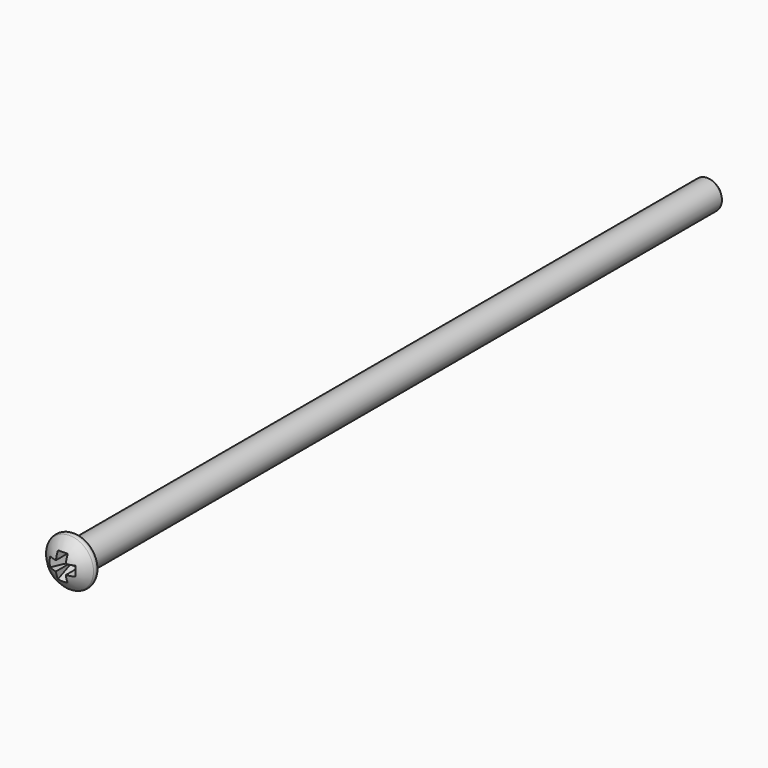
from build123d import *

# Parameters (mm, degrees)
PAD009_DEPTH            = 0.5
BODY005_PLACEMENT_ANGLE = 90
PAD008_DEPTH            = 0.5


with BuildPart() as body005:
    # Sketch021 → Pad009 (new body, symmetric)
    with BuildSketch(Plane.XY):
        Polygon((-2.15, -3.5), (2.15, -3.5), (0.625, 0), (-0.625, 0), align=None)
    extrude(amount=PAD009_DEPTH, both=True)


with BuildPart() as body005_1:
    # Body005 placement: moved
    add(body005.part.rotate(Axis((0, 0, 0), (0, -1, 0)), BODY005_PLACEMENT_ANGLE))


with BuildPart() as fusion:
    # Sketch020 → Pad008 (new body, symmetric)
    with BuildSketch(Plane.XY):
        Polygon((-2.15, -3.5), (2.15, -3.5), (0.625, 0), (-0.625, 0), align=None)
    extrude(amount=PAD008_DEPTH, both=True)

    # Fusion: union Body005
    add(body005_1.part)


with BuildPart() as body015:
    # Sketch019 → Revolution (revolve)
    with BuildSketch(Plane.XY):
        with BuildLine():
            Line((1.5, 0), (1.5, 80.5))
            Line((1.5, 80.5), (1, 81))
            Line((1, 81), (0, 81))
            Line((0, 81), (0, -1.9))
            ThreePointArc((0, -1.9), (1.354762, -1.576681), (2.417511, -0.676413))
            ThreePointArc((2.417511, -0.676413), (2.454213, -0.232991), (2.075154, 0))
            Line((1.5, 0), (2.075154, 0))
        make_face()
    revolve(axis=Axis((0, 0, 0), (0, 1, 0)))

    # Cut: cut Fusion
    add(fusion.part, mode=Mode.SUBTRACT)


with BuildPart() as body015_1:
    # Cut placement: moved
    add(body015.part.moved(Location((-15.9, 3, 25.5))))


solid = body015_1.part
